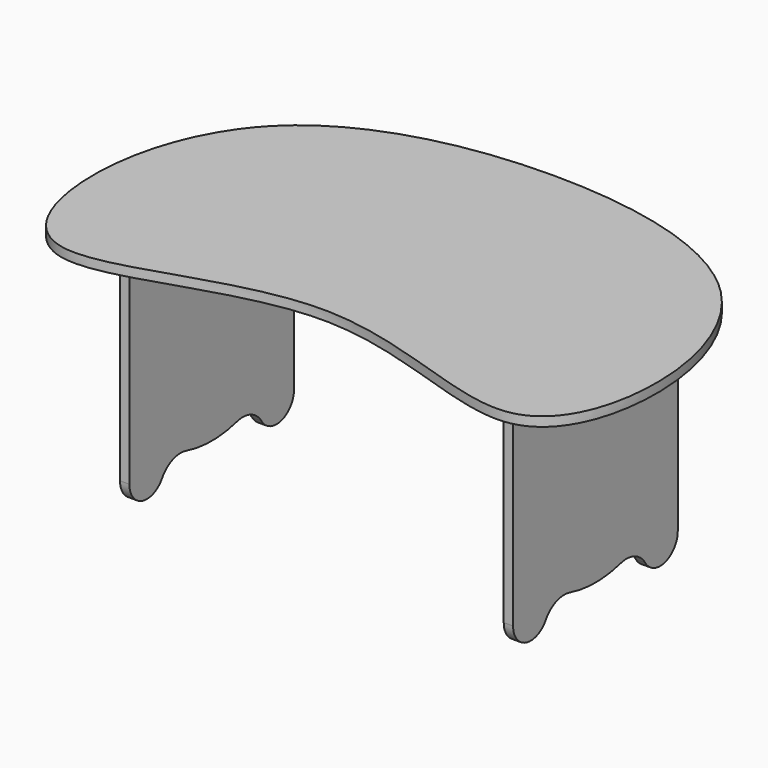
from build123d import *

# Parameters (mm, degrees)
F1_DEPTH = 12.7
F2_W     = 12.7
F2_H     = 279.4
F3_DEPTH = 304.8
F5_DEPTH = 648.7805621686


with BuildPart() as f1:
    # F0 (on Top) → F1 (new body)
    with BuildSketch(Plane.XY):
        with BuildLine():
            add(Edge.make_bspline(
                [(-304.8, 177.8), (-235.761857125, 248.2140980671), (0, 303.2452493038), (339.4937448826, 224.0011686608), (405.8085553999, -51.2649010248), (316.0624451198, -242.7445409177), (0, -41.8375263319), (-316.0624451198, -242.7445409177), (-405.8085553999, -51.2649010248), (-365.5516158468, 115.837582446), (-304.8, 177.8)],
                knots=[0, 0, 0, 0, 0.1416340267, 0.2832680533, 0.4079019966, 0.5020791933, 0.6416340267, 0.7811888601, 0.8753660568, 1, 1, 1, 1], degree=3))
        make_face()
    extrude(amount=F1_DEPTH)

    # F2 (on face) → F3 (join)
    with BuildSketch(Plane(origin=(0, 0, 0), x_dir=(1, 0, 0), z_dir=(0, 0, -1))):
        with Locations((260.35, -12.7)):
            Rectangle(F2_W, F2_H)
    extrude(amount=F3_DEPTH)

    # F4 (on face) → F5 (cut, through all)
    with BuildSketch(Plane.YZ.offset(266.7)):
        with BuildLine():
            Line((152.4, -304.8), (152.4, -274.9722728899))
            ThreePointArc((152.4, -274.9722728899), (143.6636609968, -296.0636609968), (122.5722728899, -304.8))
            Line((122.5722728899, -304.8), (152.4, -304.8))
        make_face()
        with BuildLine():
            ThreePointArc((122.5722728899, -304.8), (108.0354145998, -301.0178685945), (97.1850797966, -290.6306167166))
            ThreePointArc((97.1850797966, -290.6306167166), (100.4881382805, -297.4519702272), (102.3448874623, -304.8))
            Line((102.3448874623, -304.8), (122.5722728899, -304.8))
        make_face()
        with BuildLine():
            ThreePointArc((97.1850797966, -290.6306167166), (79.0628033939, -275.4851127104), (55.4771309398, -274.2525347182))
            ThreePointArc((55.4771309398, -274.2525347182), (37.4504519369, -285.5185476746), (28.5000441231, -304.8))
            Line((28.5000441231, -304.8), (102.3448874623, -304.8))
            ThreePointArc((102.3448874623, -304.8), (100.4881382805, -297.4519702272), (97.1850797966, -290.6306167166))
        make_face()
        with BuildLine():
            ThreePointArc((55.4771309398, -274.2525347182), (12.6999996395, -280.0575636007), (-30.0771316348, -274.2525345261))
            ThreePointArc((-30.0771316348, -274.2525345261), (-12.0504521756, -285.5185474044), (-3.1000441231, -304.8))
            Line((-3.1000441231, -304.8), (28.5000441231, -304.8))
            ThreePointArc((28.5000441231, -304.8), (37.4504519369, -285.5185476746), (55.4771309398, -274.2525347182))
        make_face()
        with BuildLine():
            ThreePointArc((-30.0771316348, -274.2525345261), (-53.662803897, -275.485112908), (-71.7850799856, -290.6306170229))
            ThreePointArc((-71.7850799856, -290.6306170229), (-75.0881383421, -297.4519703963), (-76.9448874623, -304.8))
            Line((-76.9448874623, -304.8), (-3.1000441231, -304.8))
            ThreePointArc((-3.1000441231, -304.8), (-12.0504521756, -285.5185474044), (-30.0771316348, -274.2525345261))
        make_face()
        with BuildLine():
            ThreePointArc((-76.9448874623, -304.8), (-75.0881383421, -297.4519703963), (-71.7850799856, -290.6306170229))
            ThreePointArc((-71.7850799856, -290.6306170229), (-82.635414757, -301.0178686822), (-97.17227289, -304.8))
            Line((-97.17227289, -304.8), (-76.9448874623, -304.8))
        make_face()
        with BuildLine():
            ThreePointArc((-97.17227289, -304.8), (-118.2636609968, -296.0636609968), (-127, -274.9722728899))
            Line((-127, -274.9722728899), (-127, -304.8))
            Line((-127, -304.8), (-97.17227289, -304.8))
        make_face()
    extrude(amount=-F5_DEPTH, mode=Mode.SUBTRACT)

    # F6: F1 across plane


with BuildPart() as f1_1:
    add(f1.part)
    add(f1.part.mirror(Plane.YZ))


solid = f1_1.part
